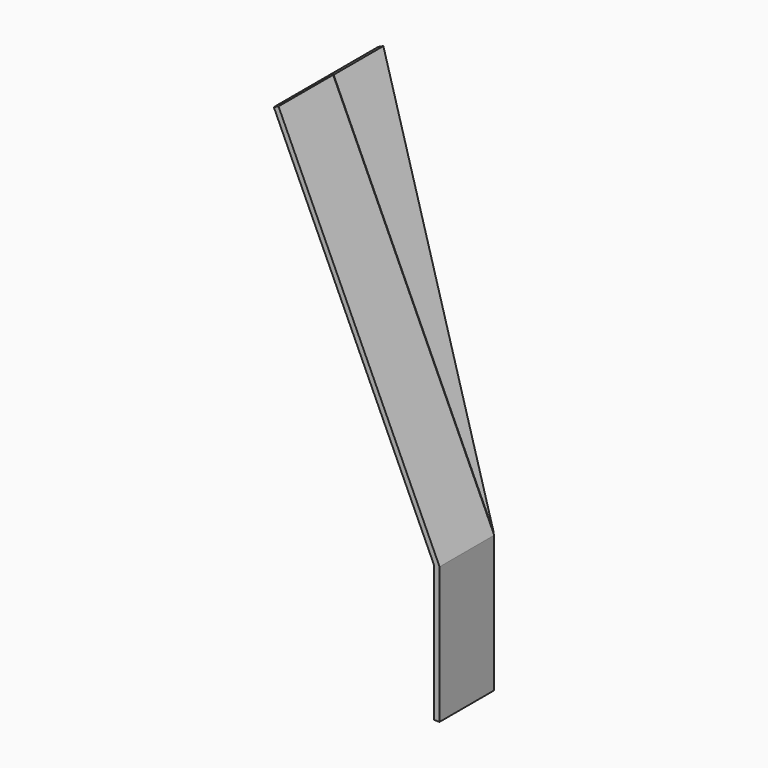
from build123d import *

# Parameters (mm, degrees)
F1_DEPTH = 76.2
F3_DEPTH = 6.35


with BuildPart() as f1:
    # F0 (on Front) → F1 (new body)
    with BuildSketch(Plane.XZ):
        Polygon((6.35, -76.2), (6.35, 0), (6.35, 76.2), (-173.31844, 469.9), (-178.573917, 467.501617), (0, 76.2), (0, 0), (0, -76.2), align=None)
    extrude(amount=F1_DEPTH)

    # F2 (on face) → F3 (join)
    with BuildSketch(Plane(origin=(28.780595, 0, 13.134276), x_dir=(0, -1, 0), z_dir=(-0.909744, 0, -0.41517))):
        Polygon((0, 69.322494), (0, 499.445266), (-69.376085, 499.445266), align=None)
    extrude(amount=-F3_DEPTH)


solid = f1.part
